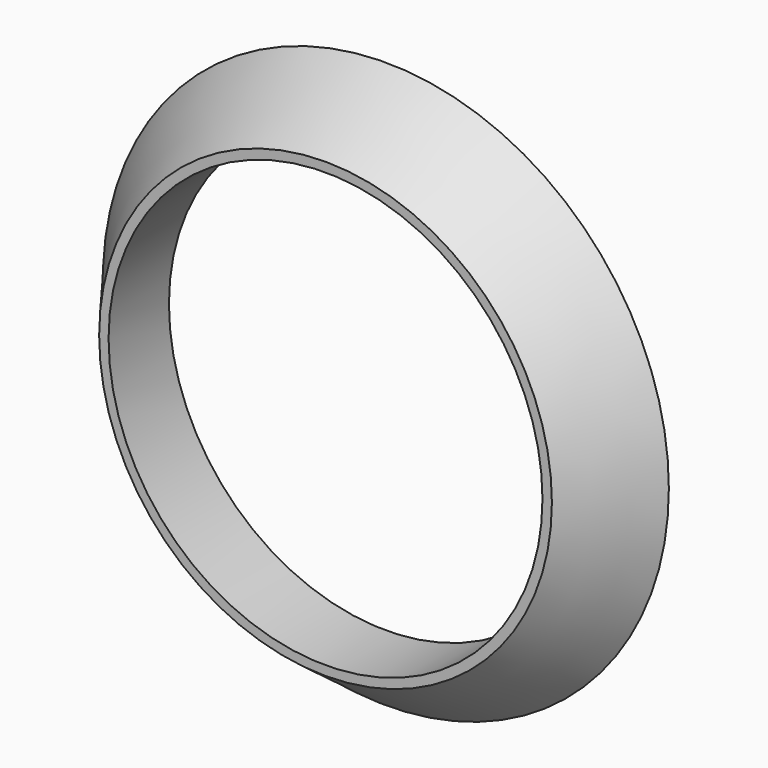
from build123d import *

# Parameters (mm, degrees)
F0_R     = 38.1
F2_R     = 47.625
F4_R     = 36.5125
F5_DEPTH = 25.4


with BuildPart() as f3:
    # F0 (on Front) → F3 section 0
    with BuildSketch(Plane.XZ):
        Circle(F0_R)
    # F2 (on offset) → F3 section 1
    with BuildSketch(Plane.XZ.offset(-12.7)):
        Circle(F2_R)
    loft()

    # F4 (on Front) → F5 (cut)
    with BuildSketch(Plane.XZ):
        Circle(F4_R)
    extrude(amount=-F5_DEPTH, mode=Mode.SUBTRACT)


solid = f3.part
